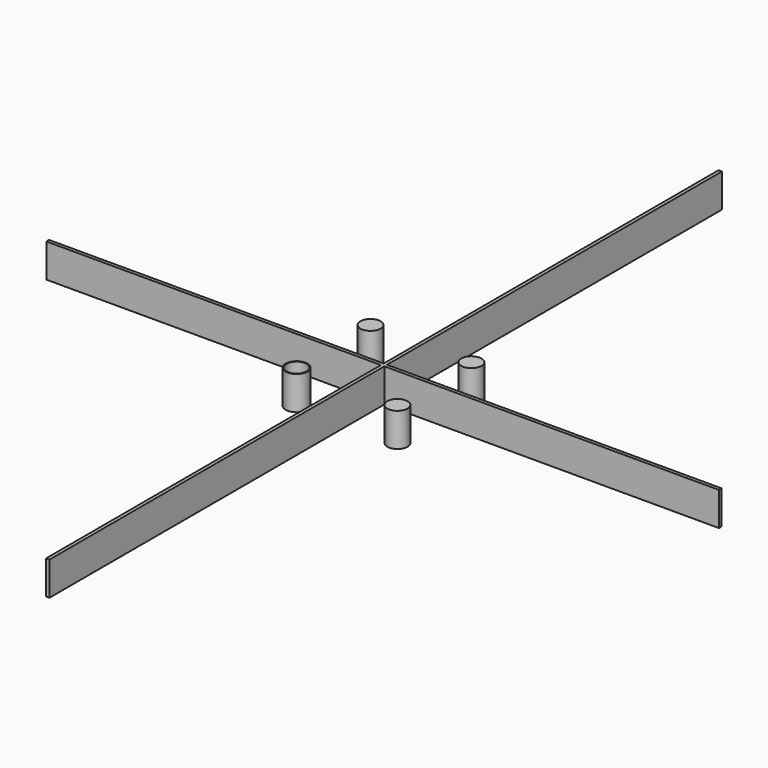
from build123d import *

# Parameters (mm, degrees)
F0_R     = 3
F1_DEPTH = 10
F0_R_2   = 3.2496779571
F0_W     = 0.5
F0_H     = 0.5
F0_W_2   = 99.5


with BuildPart() as f1:
    # F0 (on Top) → F1 (new body)
    with BuildSketch(Plane.XY):
        with Locations((-15, 13.75)):
            Circle(F0_R)
    extrude(amount=F1_DEPTH)


with BuildPart() as f1b:
    # F0 (on Top) → F1, piece 2 (new body)
    with BuildSketch(Plane.XY):
        with Locations((-15, -13.75)):
            Circle(F0_R_2)
        with Locations((-15, -13.75)):
            Circle(F0_R, mode=Mode.SUBTRACT)
    extrude(amount=F1_DEPTH)


with BuildPart() as f1c:
    # F0 (on Top) → F1, piece 3 (new body)
    with BuildSketch(Plane.XY):
        with Locations((15, 13.75)):
            Circle(F0_R)
    extrude(amount=F1_DEPTH)


with BuildPart() as f1d:
    # F0 (on Top) → F1, piece 4 (new body)
    with BuildSketch(Plane.XY):
        with Locations((15, -13.75)):
            Circle(F0_R)
    extrude(amount=F1_DEPTH)


with BuildPart() as f1e:
    # F0 (on Top) → F1, piece 5 (new body)
    with BuildSketch(Plane.XY):
        with Locations((-0.25, 0.25)):
            Rectangle(F0_W, F0_H)
        with Locations((0.25, -0.25)):
            Rectangle(F0_W, F0_H)
        with Locations((-0.25, -0.25)):
            Rectangle(F0_W, F0_H)
        with Locations((0.25, 0.25)):
            Rectangle(F0_W, F0_H)
        Polygon((-0.5, 0.5), (0, 0.5), (0.5, 0.5), (0.5, 125), (-0.5, 125), align=None)
        Polygon((0.5, -0.5), (0, -0.5), (-0.5, -0.5), (-0.5, -125), (0.5, -125), align=None)
        with Locations((-50.25, -0.25)):
            Rectangle(F0_W_2, F0_H)
        with Locations((-50.25, 0.25)):
            Rectangle(F0_W_2, F0_H)
        with Locations((50.25, 0.25)):
            Rectangle(F0_W_2, F0_H)
        with Locations((50.25, -0.25)):
            Rectangle(F0_W_2, F0_H)
    extrude(amount=F1_DEPTH)


solid = Compound([f1.part, f1b.part, f1c.part, f1d.part, f1e.part])
